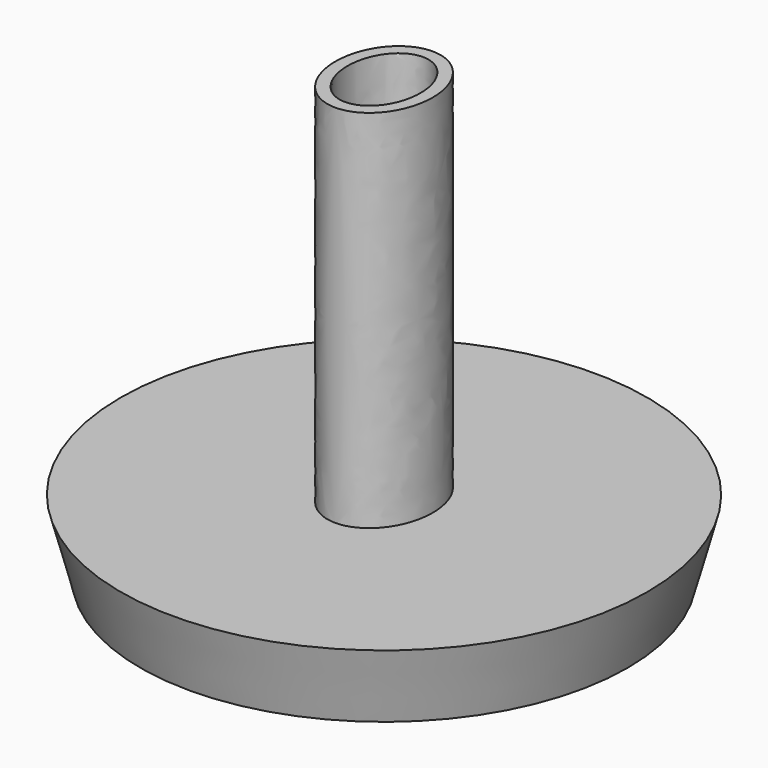
from build123d import *

# Parameters (mm, degrees)
F0_R     = 50
F1_DEPTH = 15
F1_TAPER = -15
F3_DEPTH = 75
F5_DEPTH = 50


with BuildPart() as f1:
    # F0 (on Top) → F1 (new body)
    with BuildSketch(Plane.XY):
        Circle(F0_R)
    extrude(amount=F1_DEPTH, taper=F1_TAPER)

    # F2 (on face) → F3 (join)
    with BuildSketch(Plane.XY.offset(15)):
        with BuildLine():
            add(Edge.make_bspline(
                [(0, -12.5), (17.3205080757, -12.5), (8.6602540378, 6.25), (0, 25), (-8.6602540378, 6.25), (-17.3205080757, -12.5), (0, -12.5)],
                knots=[0, 0, 0, 2.0943951024, 2.0943951024, 4.1887902048, 4.1887902048, 6.2831853072, 6.2831853072, 6.2831853072], degree=2, weights=[1, 0.5, 1, 0.5, 1, 0.5, 1]))
        make_face()
    extrude(amount=F3_DEPTH)

    # F4 (on face) → F5 (cut)
    with BuildSketch(Plane.XY.offset(90)):
        with BuildLine():
            add(Edge.make_bspline(
                [(0, -10), (12.9903810568, -10), (6.4951905284, 5), (0, 20), (-6.4951905284, 5), (-12.9903810568, -10), (0, -10)],
                knots=[0, 0, 0, 2.0943951024, 2.0943951024, 4.1887902048, 4.1887902048, 6.2831853072, 6.2831853072, 6.2831853072], degree=2, weights=[1, 0.5, 1, 0.5, 1, 0.5, 1]))
        make_face()
    extrude(amount=-F5_DEPTH, mode=Mode.SUBTRACT)


solid = f1.part
